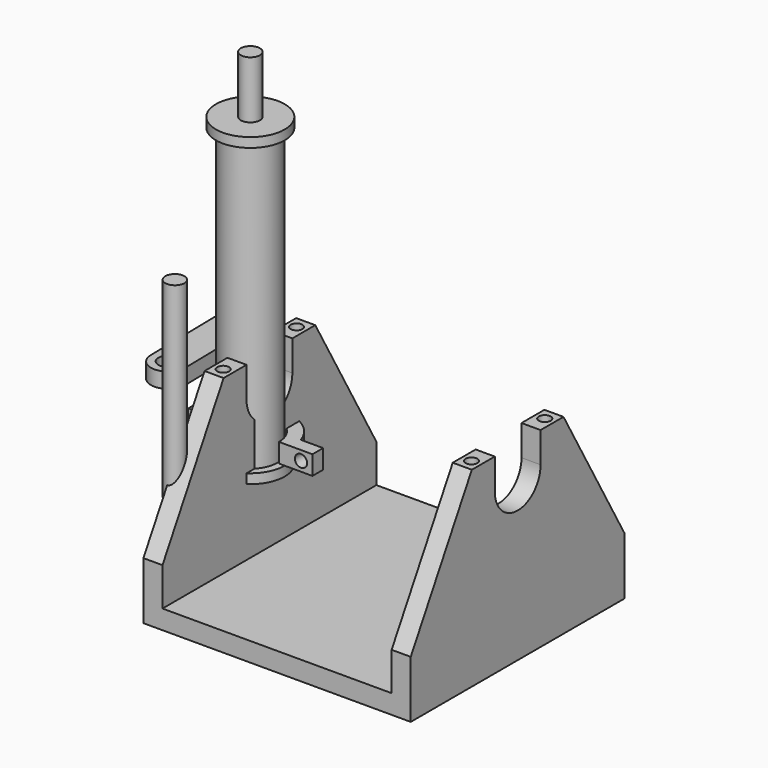
from build123d import *

# Parameters (mm, degrees)
PAD_DEPTH               = 70
SKETCH002_W             = 10
SKETCH002_H             = 60
POCKET_DEPTH            = 70.001
POCKET001_DEPTH         = 70.001
SKETCH016_W             = 70
SKETCH016_H             = 60
POCKET008_DEPTH         = 35.001
SKETCH017_R             = 1.55
POCKET009_DEPTH         = 6
PAD004_DEPTH            = 5
SKETCH014_W             = 6
SKETCH014_H             = 3.5
PAD005_DEPTH            = 5
SKETCH015_R             = 1.6
POCKET007_DEPTH         = 5
SKETCH018_R             = 7
PAD006_DEPTH            = 75
SKETCH019_R             = 9
PAD007_DEPTH            = 2.5
SKETCH020_R             = 9
PAD008_DEPTH            = 2.5
SKETCH021_R             = 2.5
PAD009_DEPTH            = 15
PAD012_DEPTH            = 4
SKETCH027_R             = 2.55
POCKET010_DEPTH         = 5
BODY004_PLACEMENT_ANGLE = 1
SKETCH025_R             = 2.5
PAD011_DEPTH            = 50


with BuildPart() as body:
    # Sketch → Pad (new body)
    with BuildSketch(Plane.YZ):
        Polygon((-35, -25), (35, -25), (35, -10), (15, 25), (-15, 25), (-35, -10), align=None)
    extrude(amount=PAD_DEPTH)

    # Sketch002 (on Face2 of Pad) → Pocket (cut, through all)
    with BuildSketch(Plane.ZX.offset(35)):
        with Locations((-15, 35)):
            Rectangle(SKETCH002_W, SKETCH002_H)
    extrude(amount=-POCKET_DEPTH, mode=Mode.SUBTRACT)

    # Sketch004 (on Face4 of Pocket) → Pocket001 (cut, through all)
    with BuildSketch(Plane(origin=(0, 0, 0), x_dir=(0, 1, 0), z_dir=(-1, 0, 0))):
        with BuildLine():
            ThreePointArc((7.5, -17), (0, -9.5), (-7.5, -17))
            Line((-7.5, -17), (-7.5, -25))
            Line((-7.5, -25), (7.5, -25))
            Line((7.5, -25), (7.5, -17))
        make_face()
    extrude(amount=-POCKET001_DEPTH, mode=Mode.SUBTRACT)

    # Sketch016 (on Face16 of Pocket001) → Pocket008 (cut, through all)
    with BuildSketch(Plane.YX.offset(10)):
        with Locations((0, 35)):
            Rectangle(SKETCH016_W, SKETCH016_H)
    extrude(amount=-POCKET008_DEPTH, mode=Mode.SUBTRACT)

    # Sketch017 (on Face22 of Pocket008) → Pocket009 (cut)
    with BuildSketch(Plane(origin=(0, 0, 25), x_dir=(0, -1, 0), z_dir=(0, 0, 1))):
        with Locations((-12, 67.5)):
            Circle(SKETCH017_R)
        with Locations((-12, 2.5)):
            Circle(SKETCH017_R)
    pocket009 = extrude(amount=-POCKET009_DEPTH, mode=Mode.SUBTRACT)

    # Mirrored: Pocket009 across Sketch017 V_Axis
    add(pocket009.mirror(Plane(origin=(0, 0, 25), x_dir=(0, 0, 1), z_dir=(0, -1, 0))), mode=Mode.SUBTRACT)


with BuildPart() as body002:
    # Sketch013 → Pad004 (new body)
    with BuildSketch(Plane.XY):
        with BuildLine():
            ThreePointArc((7.5, 0), (0, 7.5), (-7.5, 0))
            Line((-11, 0), (-7.5, 0))
            ThreePointArc((11, 0), (0, 11), (-11, 0))
            Line((7.5, 0), (11, 0))
        make_face()
    extrude(amount=PAD004_DEPTH)

    # Sketch014 (on Face5 of Pad004) → Pad005 (join)
    with BuildSketch(Plane(origin=(0, 0, 0), x_dir=(1, 0, 0), z_dir=(0, 0, -1))):
        with Locations((-13.263054, -1.75)):
            Rectangle(SKETCH014_W, SKETCH014_H)
    pad005 = extrude(amount=-PAD005_DEPTH)

    # Sketch015 (on Face10 of Pad005) → Pocket007 (cut)
    with BuildSketch(Plane(origin=(0, 3.5, 0), x_dir=(-1, 0, 0), z_dir=(0, 1, 0))):
        with Locations((13.263054, 2.5)):
            Circle(SKETCH015_R)
    pocket007 = extrude(amount=-POCKET007_DEPTH, mode=Mode.SUBTRACT)

    # Mirrored001: Pad005 across Sketch014 V_Axis
    add(pad005.mirror(Plane(origin=(0, 0, 0), x_dir=(0, 0, -1), z_dir=(1, 0, 0))))

    # Mirrored002: Pocket007 across Sketch015 V_Axis
    add(pocket007.mirror(Plane(origin=(0, 3.5, 0), x_dir=(0, 1, 0), z_dir=(-1, 0, 0))), mode=Mode.SUBTRACT)


with BuildPart() as body003:
    # Sketch018 → Pad006 (new body)
    with BuildSketch(Plane.XY):
        Circle(SKETCH018_R)
    extrude(amount=PAD006_DEPTH)

    # Sketch019 (on Face2 of Pad006) → Pad007 (join)
    with BuildSketch(Plane(origin=(0, 0, 0), x_dir=(1, 0, 0), z_dir=(0, 0, -1))):
        Circle(SKETCH019_R)
    extrude(amount=PAD007_DEPTH)

    # Sketch020 (on Face1 of Pad007) → Pad008 (join)
    with BuildSketch(Plane.XY.offset(75)):
        Circle(SKETCH020_R)
    extrude(amount=PAD008_DEPTH)

    # Sketch021 (on Face7 of Pad008) → Pad009 (join)
    with BuildSketch(Plane.XY.offset(77.5)):
        Circle(SKETCH021_R)
    extrude(amount=PAD009_DEPTH)


with BuildPart() as body004:
    # Sketch026 → Pad012 (new body)
    with BuildSketch(Plane.XY):
        with BuildLine():
            ThreePointArc((-28.903579, 46.76248), (-33.403579, 51.26248), (-37.903579, 46.76248))
            Line((-37.903579, 46.76248), (-37.903579, 15.76248))
            ThreePointArc((-37.903579, 15.76248), (-33.403579, 11.26248), (-28.903579, 15.76248))
            Line((-28.903579, 46.76248), (-28.903579, 15.76248))
        make_face()
    extrude(amount=PAD012_DEPTH)

    # Sketch027 (on Face6 of Pad012) → Pocket010 (cut)
    with BuildSketch(Plane.XY.offset(4)):
        with Locations((-33.403579, 46.76248)):
            Circle(SKETCH027_R)
        with Locations((-33.403579, 15.76248)):
            Circle(SKETCH027_R)
    extrude(amount=-POCKET010_DEPTH, mode=Mode.SUBTRACT)


with BuildPart() as body004_1:
    # Body004 placement: moved
    add(body004.part.rotate(Axis((0, 0, 0), (0, 0, 1)), BODY004_PLACEMENT_ANGLE))


with BuildPart() as body006:
    # Sketch025 → Pad011 (new body)
    with BuildSketch(Plane.XY):
        with Locations((0, -24.705258)):
            Circle(SKETCH025_R)
    extrude(amount=PAD011_DEPTH)


solid = Compound([body.part, body002.part, body003.part, body004_1.part, body006.part])
